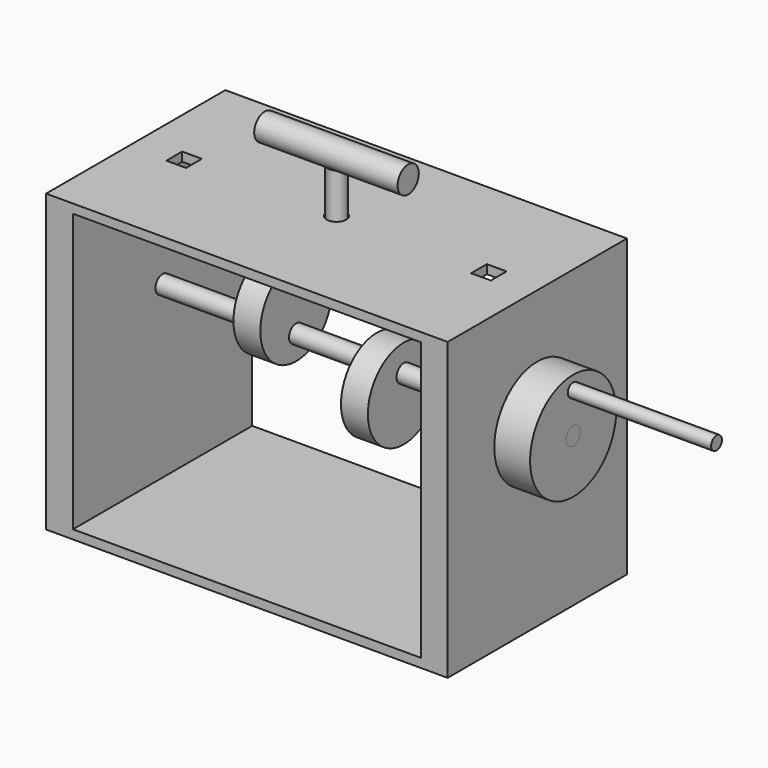
from build123d import *

# Parameters (mm, degrees)
F0_W      = 284.5298647881
F0_H      = 209.55
F0_W_2    = 246.4298647881
F0_H_2    = 196.85
F1_DEPTH  = 79.375
F2_R      = 38.1
F3_DEPTH  = 25.4
F4_R      = 4.7625
F5_DEPTH  = 101.6
F6_R      = 6.35
F7_DEPTH  = 284.5308647881
F8_R      = 6.35
F9_DEPTH  = 310.642
F10_R     = 6.9807457545
F11_DEPTH = 25.4
F14_R     = 6.4516
F15_DEPTH = 31.75
F16_R     = 6.4516
F17_DEPTH = 12.7
F18_R     = 31.75
F18_R_2   = 6.35
F19_DEPTH = 9.525
F20_R     = 31.75
F20_R_2   = 6.35
F21_DEPTH = 9.525
F22_W     = 13.97
F22_H     = 13.97
F23_DEPTH = 38.1
F24_R     = 9.3861059633
F25_DEPTH = 50.8


with BuildPart() as f1:
    # F0 (on Front) → F1 (new body, symmetric)
    with BuildSketch(Plane.XZ):
        Rectangle(F0_W, F0_H)
        Rectangle(F0_W_2, F0_H_2, mode=Mode.SUBTRACT)
    extrude(amount=F1_DEPTH, both=True)

    # F6 (on face) → F7 (cut, through all)
    with BuildSketch(Plane.YZ.offset(142.264932394)):
        with Locations((0, 22.225)):
            Circle(F6_R)
    extrude(amount=-F7_DEPTH, mode=Mode.SUBTRACT)

    # F10 (on face) → F11 (cut)
    with BuildSketch(Plane.XY.offset(104.775)):
        Circle(F10_R)
    extrude(amount=-F11_DEPTH, mode=Mode.SUBTRACT)

    # F22 (on face) → F23 (cut)
    with BuildSketch(Plane.XY.offset(104.775)):
        with Locations((-107.95, 0)):
            Rectangle(F22_W, F22_H)
        with Locations((107.95, 0)):
            Rectangle(F22_W, F22_H)
    extrude(amount=-F23_DEPTH, mode=Mode.SUBTRACT)


with BuildPart() as f3:
    # F2 (on face) → F3 (new body)
    with BuildSketch(Plane.YZ.offset(142.264932394)):
        with Locations((0, 22.225)):
            Circle(F2_R)
    extrude(amount=F3_DEPTH)


with BuildPart() as f5:
    # F4 (on face) → F5 (new body)
    with BuildSketch(Plane.YZ.offset(167.664932394)):
        with Locations((0, 50.8)):
            Circle(F4_R)
    extrude(amount=F5_DEPTH)


with BuildPart() as f9:
    # F8 (on face) → F9 (new body)
    with BuildSketch(Plane.YZ.offset(167.664932394)):
        with Locations((0, 22.225)):
            Circle(F8_R)
    extrude(amount=-F9_DEPTH)

    # F18 (on offset) → F19 (join, symmetric)
    with BuildSketch(Plane.YZ.offset(38.1)):
        with Locations((0, 9.525)):
            Circle(F18_R)
        with Locations((0, 22.225)):
            Circle(F18_R_2, mode=Mode.SUBTRACT)
    extrude(amount=F19_DEPTH, both=True)

    # F20 (on offset) → F21 (join, symmetric)
    with BuildSketch(Plane.YZ.offset(-38.1)):
        with Locations((0, 36.6405477102)):
            Circle(F20_R)
        with Locations((0, 22.225)):
            Circle(F20_R_2, mode=Mode.SUBTRACT)
    extrude(amount=F21_DEPTH, both=True)


with BuildPart() as f15:
    # F14 (on face) → F15 (new body, symmetric)
    with BuildSketch(Plane.XY.offset(104.775)):
        Circle(F14_R)
    extrude(amount=F15_DEPTH, both=True)

    # F24 (on Right) → F25 (join, symmetric)
    with BuildSketch(Plane.YZ):
        with Locations((0, 144.1115438938)):
            Circle(F24_R)
    extrude(amount=F25_DEPTH, both=True)


with BuildPart() as f17:
    # F16 (on face) → F17 (new body)
    with BuildSketch(Plane(origin=(0, 0, 73.025), x_dir=(1, 0, 0), z_dir=(0, 0, -1))):
        with BuildLine():
            add(Edge.make_bspline(
                [(41.5398068726, 0), (41.5398068726, 33.9453180526), (-20.7699034363, 16.9726590263), (-83.0796137452, 0), (-20.7699034363, -16.9726590263), (41.5398068726, -33.9453180526), (41.5398068726, 0)],
                knots=[0, 0, 0, 2.0943951024, 2.0943951024, 4.1887902048, 4.1887902048, 6.2831853072, 6.2831853072, 6.2831853072], degree=2, weights=[1, 0.5, 1, 0.5, 1, 0.5, 1]))
        make_face()
        Circle(F16_R, mode=Mode.SUBTRACT)
    extrude(amount=-F17_DEPTH)


solid = Compound([f1.part, f3.part, f5.part, f9.part, f15.part, f17.part])
